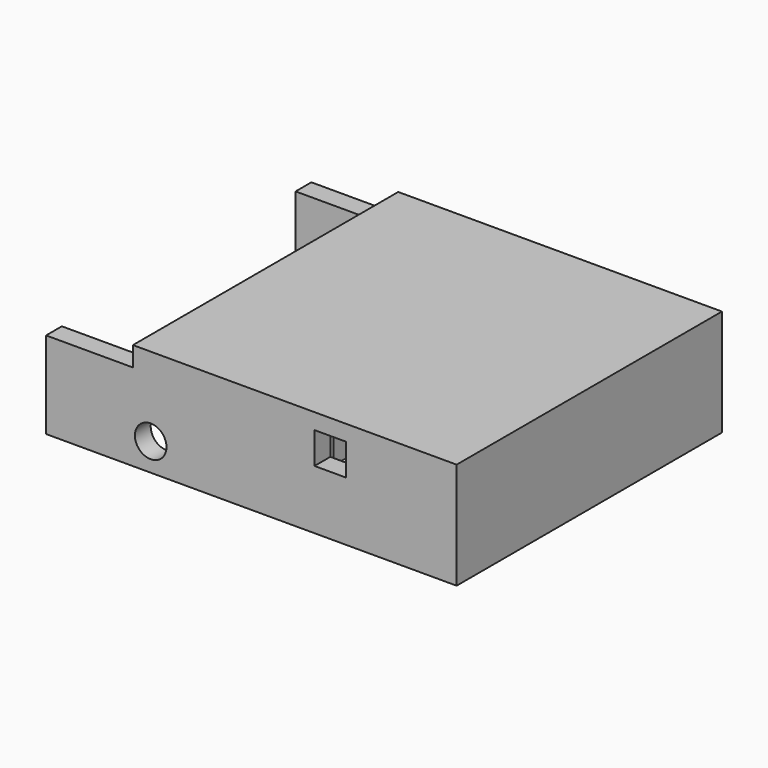
from build123d import *

# Parameters (mm, degrees)
CYLINDER003_R     = 3
CYLINDER003_DEPTH = 5
BOX006_W          = 22
BOX006_H          = 5
BOX006_DEPTH      = 21
BOX007_W          = 10
BOX007_H          = 12
BOX007_DEPTH      = 21
CYLINDER007_R     = 5
CYLINDER007_DEPTH = 8
BOX010_W          = 3
BOX010_H          = 16
BOX010_DEPTH      = 3
CYLINDER006_R     = 8
CYLINDER006_DEPTH = 10
CYLINDER001_R     = 4
CYLINDER001_DEPTH = 84
BOX017_W          = 8
BOX017_H          = 5
BOX017_DEPTH      = 8
BOX018_W          = 8
BOX018_H          = 5
BOX018_DEPTH      = 8
BOX019_W          = 22
BOX019_H          = 84
BOX019_DEPTH      = 5
BOX003_W          = 99
BOX003_H          = 74
BOX003_DEPTH      = 29
BOX002_W          = 104
BOX002_H          = 84
BOX002_DEPTH      = 27


with BuildPart() as pivotmountinghole:
    # Cylinder003 → Cylinder003 (new body)
    with BuildSketch(Plane(origin=(19.5, 28.5, 14), x_dir=(1, 0, 0), z_dir=(0, -1, 0))):
        Circle(CYLINDER003_R)
    extrude(amount=CYLINDER003_DEPTH)


with BuildPart() as pivotplate:
    # Box006 → Box006 (new body)
    with BuildSketch(Plane(origin=(15, 23.5, 8), x_dir=(1, 0, 0), z_dir=(0, 0, 1))):
        with Locations((11, 2.5)):
            Rectangle(BOX006_W, BOX006_H)
    extrude(amount=BOX006_DEPTH)


with BuildPart() as pivotmount:
    # Box007 → Box007 (new body)
    with BuildSketch(Plane(origin=(37, 16.5, 8), x_dir=(1, 0, 0), z_dir=(0, 0, 1))):
        with Locations((5, 6)):
            Rectangle(BOX007_W, BOX007_H)
    extrude(amount=BOX007_DEPTH)

    # Fusion003: union PivotPlate
    add(pivotplate.part)

    # Cut003: cut PivotMountingHole
    add(pivotmountinghole.part, mode=Mode.SUBTRACT)


with BuildPart() as topspringholeinner:
    # Cylinder007 → Cylinder007 (new body)
    with BuildSketch(Plane(origin=(65, 35, 19), x_dir=(1, 0, 0), z_dir=(0, 0, 1))):
        Circle(CYLINDER007_R)
    extrude(amount=CYLINDER007_DEPTH)


with BuildPart() as topspringholecutout:
    # Box010 → Box010 (new body)
    with BuildSketch(Plane(origin=(63.5, 27, 23), x_dir=(1, 0, 0), z_dir=(0, 0, 1))):
        with Locations((1.5, 8)):
            Rectangle(BOX010_W, BOX010_H)
    extrude(amount=BOX010_DEPTH)

    # Fusion005: union TopSpringHoleInner
    add(topspringholeinner.part)


with BuildPart() as topspringcaptive:
    # Cylinder006 → Cylinder006 (new body)
    with BuildSketch(Plane(origin=(65, 35, 19), x_dir=(1, 0, 0), z_dir=(0, 0, 1))):
        Circle(CYLINDER006_R)
    extrude(amount=CYLINDER006_DEPTH)

    # Cut005: cut TopSpringHoleCutout
    add(topspringholecutout.part, mode=Mode.SUBTRACT)


with BuildPart() as pivotaxistop:
    # Cylinder001 → Cylinder001 (new body)
    with BuildSketch(Plane(origin=(19.5, 77, 14), x_dir=(1, 0, 0), z_dir=(0, -1, 0))):
        Circle(CYLINDER001_R)
    extrude(amount=CYLINDER001_DEPTH)


with BuildPart() as obj1:
    # Box017 → Box017 (new body)
    with BuildSketch(Plane(origin=(61, 72, 22), x_dir=(1, 0, 0), z_dir=(0, 0, 1))):
        with Locations((4, 2.5)):
            Rectangle(BOX017_W, BOX017_H)
    extrude(amount=BOX017_DEPTH)


with BuildPart() as obj2:
    # Box018 → Box018 (new body)
    with BuildSketch(Plane(origin=(61, -7, 22), x_dir=(1, 0, 0), z_dir=(0, 0, 1))):
        with Locations((4, 2.5)):
            Rectangle(BOX018_W, BOX018_H)
    extrude(amount=BOX018_DEPTH)


with BuildPart() as toppedalhingecutout:
    # Box019 → Box019 (new body)
    with BuildSketch(Plane(origin=(-7, -7, 29), x_dir=(1, 0, 0), z_dir=(0, 0, 1))):
        with Locations((11, 42)):
            Rectangle(BOX019_W, BOX019_H)
    extrude(amount=BOX019_DEPTH)


with BuildPart() as toppedalcutout:
    # Box003 → Box003 (new body)
    with BuildSketch(Plane(origin=(-7, -2, 0), x_dir=(1, 0, 0), z_dir=(0, 0, 1))):
        with Locations((49.5, 37)):
            Rectangle(BOX003_W, BOX003_H)
    extrude(amount=BOX003_DEPTH)

    # Fusion001: union PivotAxisTop, obj1, obj2, TopPedalHingeCutout
    add(pivotaxistop.part)
    add(obj1.part)
    add(obj2.part)
    add(toppedalhingecutout.part)


with BuildPart() as obj3:
    # Box002 → Box002 (new body)
    with BuildSketch(Plane(origin=(-7, -7, 7), x_dir=(1, 0, 0), z_dir=(0, 0, 1))):
        with Locations((52, 42)):
            Rectangle(BOX002_W, BOX002_H)
    extrude(amount=BOX002_DEPTH)

    # Cut001: cut TopPedalCutout
    add(toppedalcutout.part, mode=Mode.SUBTRACT)

    # Fusion006: union PivotMount, TopSpringCaptive
    add(pivotmount.part)
    add(topspringcaptive.part)


with BuildPart() as obj3_1:
    # Fusion006 placement: moved
    add(obj3.part.moved(Location((-19.5, 0, -14))))


solid = obj3_1.part
